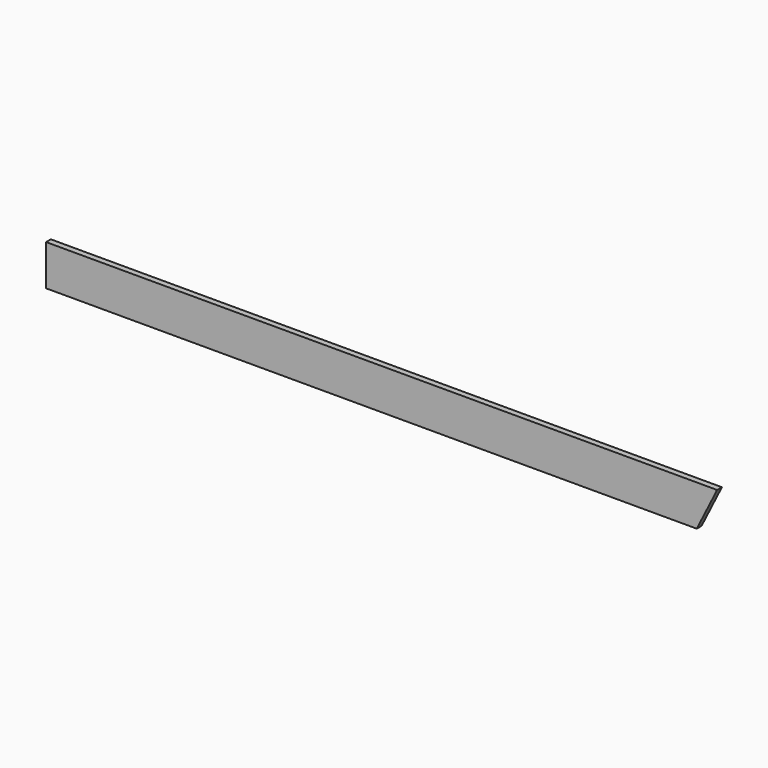
from build123d import *

# Parameters (mm, degrees)
F0_W          = 22
F0_H          = 150
F1_DEPTH      = 2472
F3_DEPTH      = 11
F3_DEPTH_BACK = 11


with BuildPart() as f1:
    # F0 (on Right) → F1 (new body)
    with BuildSketch(Plane.YZ):
        Rectangle(F0_W, F0_H)
    extrude(amount=-F1_DEPTH)

    # F2 (on Front) → F3 (cut, two sides)
    with BuildSketch(Plane.XZ) as f3_sk:
        Polygon((0, -75), (0, 75), (-75, -75), align=None)
    extrude(amount=-F3_DEPTH, mode=Mode.SUBTRACT)
    extrude(f3_sk.sketch, amount=F3_DEPTH_BACK, mode=Mode.SUBTRACT)


solid = f1.part
